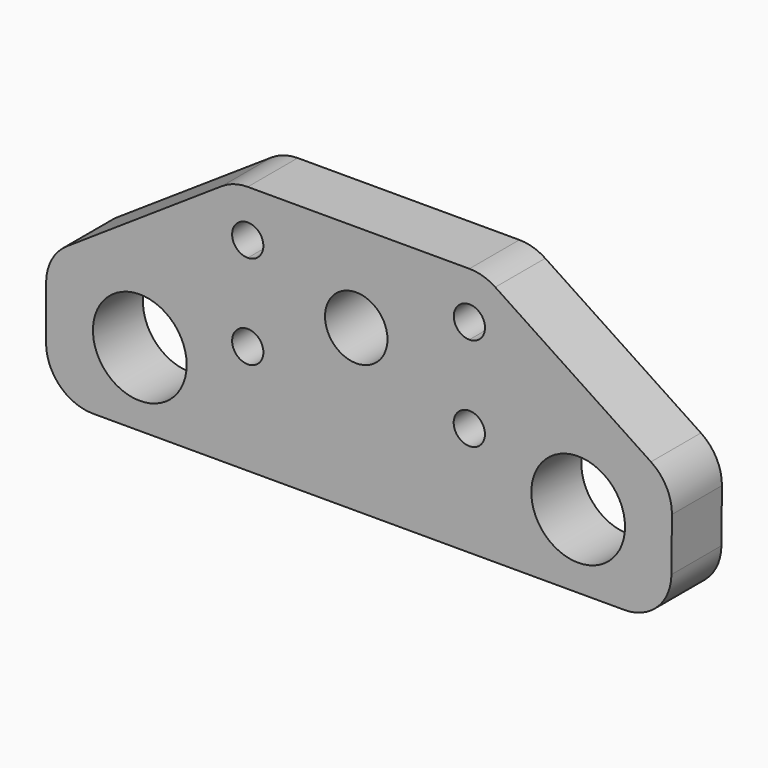
from build123d import *

# Parameters (mm, degrees)
F1_R     = 19.05
F2_DEPTH = 25.4


with BuildPart() as f2:
    # F1 (on Front) → F2 (new body)
    with BuildSketch(Plane.XZ):
        with BuildLine():
            ThreePointArc((0, 19.05), (5.579616, 5.579616), (19.05, 0))
            Line((19.05, 0), (235.130832, 0))
            ThreePointArc((235.130832, 0), (248.536825, 5.515531), (254.179965, 18.86831))
            Line((254.179965, 18.86831), (254.385811, 40.449988))
            ThreePointArc((254.385811, 40.449988), (252.162315, 49.564786), (245.857692, 56.512822))
            Line((245.857692, 56.512822), (182.583289, 98.431144))
            ThreePointArc((182.583289, 98.431144), (177.556212, 100.790591), (172.062274, 101.6))
            Line((172.062274, 101.6), (127, 101.6))
            Line((127, 101.6), (81.967876, 101.6))
            ThreePointArc((81.967876, 101.6), (76.447488, 100.782603), (71.400837, 98.400558))
            Line((71.400837, 98.400558), (8.482961, 56.455308))
            ThreePointArc((8.482961, 56.455308), (2.254099, 49.593643), (0, 40.604749))
            Line((0, 40.604749), (0, 19.05))
        make_face()
        with Locations((38.1, 29.827375)):
            Circle(F1_R, mode=Mode.SUBTRACT)
        with BuildLine():
            ThreePointArc((88.317876, 44.45), (77.477748, 39.959872), (81.967876, 50.8))
            ThreePointArc((81.967876, 50.8), (86.458004, 48.940128), (88.317876, 44.45))
        make_face(mode=Mode.SUBTRACT)
        with BuildLine():
            ThreePointArc((178.382124, 44.45), (167.541996, 39.959872), (172.032124, 50.8))
            ThreePointArc((172.032124, 50.8), (176.522252, 48.940128), (178.382124, 44.45))
        make_face(mode=Mode.SUBTRACT)
        with Locations((216.277108, 29.826619)):
            Circle(F1_R, mode=Mode.SUBTRACT)
        with BuildLine():
            ThreePointArc((138.767743, 65.500937), (116.76372, 56.856565), (127, 78.166675))
            ThreePointArc((127, 78.166675), (135.371765, 74.145309), (138.767743, 65.500937))
        make_face(mode=Mode.SUBTRACT)
        with BuildLine():
            ThreePointArc((88.317876, 82.55), (86.458004, 78.059872), (81.967876, 76.2))
            ThreePointArc((81.967876, 76.2), (77.477748, 87.040128), (88.317876, 82.55))
        make_face(mode=Mode.SUBTRACT)
        with BuildLine():
            ThreePointArc((178.412274, 82.55), (176.54173, 78.049225), (172.032124, 76.200072))
            ThreePointArc((172.032124, 76.200072), (167.582818, 87.050775), (178.412274, 82.55))
        make_face(mode=Mode.SUBTRACT)
    extrude(amount=F2_DEPTH)


solid = f2.part
